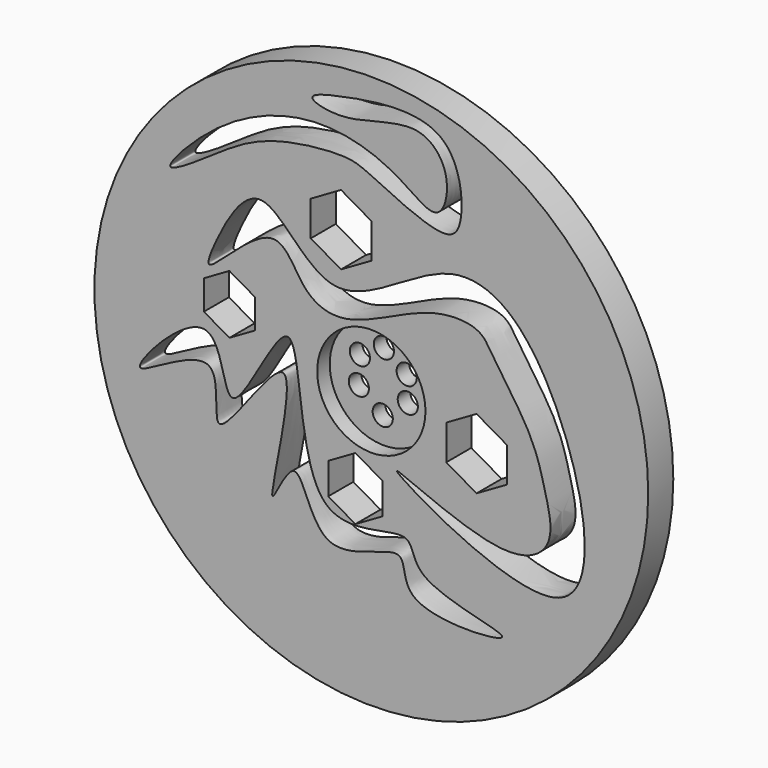
from build123d import *

# Parameters (mm, degrees)
F0_R     = 35.9051012263
F0_R_2   = 7.0201757863
F1_DEPTH = 4.064
F0_R_3   = 1.3075658624
F2_DEPTH = 2.032
F3_DEPTH = 1.016


with BuildPart() as f1:
    # F0 (on Front) → F1 (new body)
    with BuildSketch(Plane.XZ):
        Circle(F0_R)
        Polygon((-2.0674418192, -7.7260493804), (1.4472089242, -9.7552339332), (1.4472089242, -13.8136030389), (-2.0674418192, -15.8427875917), (-5.5820925627, -13.8136030389), (-5.5820925627, -9.7552339332), align=None, mode=Mode.SUBTRACT)
        with BuildLine():
            add(Edge.make_bspline(
                [(16.9530250132, -22.5351154804), (17.1385897836, -21.8236917728), (4.5855596995, -20.3460792101), (6.1052469399, -12.8764975212), (-10.5268100064, -21.3102126159), (-8.0495973756, 13.9561591727), (-19.3564744938, -14.0222738301), (-19.1267156982, 6.6168555829), (-36.3146713981, -12.9538855346), (-17.9180654987, 1.3228559127), (-22.309300559, -17.0595406296), (-6.7078772939, 9.3996224873), (-15.1397427253, -23.008420422), (-9.2921355294, -7.8537776164), (-7.3807737055, -23.3379959884), (5.5128442605, -14.6339294879), (2.8243446455, -24.1271386931), (16.7622998404, -23.2663232911), (16.9530250132, -22.5351154804)],
                knots=[0, 0, 0, 0, 0.0675307204, 0.1101672309, 0.1763180042, 0.2636793502, 0.3338734573, 0.3901368506, 0.4583510129, 0.521426687, 0.5733038571, 0.6440432408, 0.7224383757, 0.7664808304, 0.8241079175, 0.8863933435, 0.9305913063, 1, 1, 1, 1], degree=3))
        make_face(mode=Mode.SUBTRACT)
        with BuildLine():
            add(Edge.make_bspline(
                [(-20.054185763, 10.7506979257), (-18.6872268166, 13.6607393251), (-14.1417548775, 21.7106821552), (-5.2075741621, 4.6380146049), (10.8158200598, 21.4237962993), (25.0269671951, 10.1886752206), (33.0792104017, -26.590012772), (-7.548100143, -1.9956701827), (17.0664725896, -14.7772167941), (24.1771799617, -10.3807520602), (22.4443052785, -3.863637804), (21.0397131671, 1.8958193658), (15.8020671704, 8.72711401), (14.2524348543, 12.0260008446), (6.8450754729, 12.2448963322), (-2.7371381594, 5.9707392033), (-9.1993853123, 8.0745275921), (-12.1642365568, 16.9066552991), (-22.4056758747, 4.9762493873), (-20.8875040558, 8.9766938582), (-20.054185763, 10.7506979257)],
                knots=[0, 0, 0, 0, 0.0529352267, 0.1137956947, 0.1869825378, 0.2583956413, 0.345501533, 0.4304448635, 0.4971878383, 0.5453222978, 0.5879382233, 0.6333003417, 0.6854206389, 0.717790686, 0.7633919436, 0.8240114572, 0.8677049935, 0.911810715, 0.9677299067, 1, 1, 1, 1], degree=3))
        make_face(mode=Mode.SUBTRACT)
        Polygon((13.6451171711, 1.8481495918), (17.5732560456, -0.4197624448), (17.5732560456, -4.955586518), (13.6451171711, -7.2234985546), (9.7169782966, -4.955586518), (9.7169782966, -0.4197624448), align=None, mode=Mode.SUBTRACT)
        Polygon((-18.4002332389, 7.747782772), (-15.0923253968, 5.8379612889), (-15.0923253968, 2.0183183227), (-18.4002332389, 0.1084968396), (-21.708141081, 2.0183183227), (-21.708141081, 5.8379612889), align=None, mode=Mode.SUBTRACT)
        Polygon((-3.9281388745, 21.6955915221), (0, 19.4276794855), (0, 14.8918554123), (-3.9281388745, 12.6239433757), (-7.8562777489, 14.8918554123), (-7.8562777489, 19.4276794855), align=None, mode=Mode.SUBTRACT)
        with BuildLine():
            add(Edge.make_bspline(
                [(0, 24.6025584638), (2.519134824, 23.4265240958), (9.7782627058, 19.6653647007), (12.2709978535, 23.317860072), (10.9448553846, 34.8668339766), (-2.7964275343, 32.7737524115), (-9.5289819041, 31.0406010366), (-2.7353304502, 29.2714808232), (6.1723813435, 33.4756391479), (10.6113702887, 27.9919430879), (8.9205735189, 21.212079439), (2.9827149288, 26.6538900252), (-7.7880442819, 29.7245297625), (-19.89191705, 24.9193725486), (-28.4619809921, 15.2111158504), (-21.3997171439, 19.6010273455), (-16.5229048285, 23.2111674575), (-10.6099910825, 25.2503485248), (-3.2494447445, 25.9141333448), (-1.5142759622, 25.3094839357), (0, 24.6025584638)],
                knots=[0, 0, 0, 0, 0.0673142208, 0.1043759848, 0.1672026247, 0.2423225643, 0.2865701558, 0.3299813143, 0.3955493977, 0.4454105898, 0.4903324498, 0.5409509938, 0.6113249476, 0.6904612557, 0.7509678814, 0.7955081864, 0.8509660352, 0.9042044904, 0.9595367801, 1, 1, 1, 1], degree=3))
        make_face(mode=Mode.SUBTRACT)
        Circle(F0_R_2, mode=Mode.SUBTRACT)
    extrude(amount=F1_DEPTH)

    # F0 (on Front) → F2 (join)
    with BuildSketch(Plane.XZ):
        Circle(F0_R_2)
        with Locations((-3.2453567255, -1.1627117638)):
            Circle(F0_R_3, mode=Mode.SUBTRACT)
        with Locations((-0.1474606252, -3.6068281624)):
            Circle(F0_R_3, mode=Mode.SUBTRACT)
        with Locations((3.1052718405, -1.1581421131)):
            Circle(F0_R_3, mode=Mode.SUBTRACT)
        with Locations((-3.1078124885, 2.3504230194)):
            Circle(F0_R_3, mode=Mode.SUBTRACT)
        with Locations((2.9590814374, 2.058042679)):
            Circle(F0_R_3, mode=Mode.SUBTRACT)
        with Locations((0, 4.1348836385)):
            Circle(F0_R_3, mode=Mode.SUBTRACT)
    extrude(amount=F2_DEPTH)

    # F0 (on Front) → F3 (join)
    with BuildSketch(Plane.XZ):
        Circle(F0_R)
        Polygon((-2.0674418192, -7.7260493804), (1.4472089242, -9.7552339332), (1.4472089242, -13.8136030389), (-2.0674418192, -15.8427875917), (-5.5820925627, -13.8136030389), (-5.5820925627, -9.7552339332), align=None, mode=Mode.SUBTRACT)
        with BuildLine():
            add(Edge.make_bspline(
                [(16.9530250132, -22.5351154804), (17.1385897836, -21.8236917728), (4.5855596995, -20.3460792101), (6.1052469399, -12.8764975212), (-10.5268100064, -21.3102126159), (-8.0495973756, 13.9561591727), (-19.3564744938, -14.0222738301), (-19.1267156982, 6.6168555829), (-36.3146713981, -12.9538855346), (-17.9180654987, 1.3228559127), (-22.309300559, -17.0595406296), (-6.7078772939, 9.3996224873), (-15.1397427253, -23.008420422), (-9.2921355294, -7.8537776164), (-7.3807737055, -23.3379959884), (5.5128442605, -14.6339294879), (2.8243446455, -24.1271386931), (16.7622998404, -23.2663232911), (16.9530250132, -22.5351154804)],
                knots=[0, 0, 0, 0, 0.0675307204, 0.1101672309, 0.1763180042, 0.2636793502, 0.3338734573, 0.3901368506, 0.4583510129, 0.521426687, 0.5733038571, 0.6440432408, 0.7224383757, 0.7664808304, 0.8241079175, 0.8863933435, 0.9305913063, 1, 1, 1, 1], degree=3))
        make_face(mode=Mode.SUBTRACT)
        with BuildLine():
            add(Edge.make_bspline(
                [(-20.054185763, 10.7506979257), (-18.6872268166, 13.6607393251), (-14.1417548775, 21.7106821552), (-5.2075741621, 4.6380146049), (10.8158200598, 21.4237962993), (25.0269671951, 10.1886752206), (33.0792104017, -26.590012772), (-7.548100143, -1.9956701827), (17.0664725896, -14.7772167941), (24.1771799617, -10.3807520602), (22.4443052785, -3.863637804), (21.0397131671, 1.8958193658), (15.8020671704, 8.72711401), (14.2524348543, 12.0260008446), (6.8450754729, 12.2448963322), (-2.7371381594, 5.9707392033), (-9.1993853123, 8.0745275921), (-12.1642365568, 16.9066552991), (-22.4056758747, 4.9762493873), (-20.8875040558, 8.9766938582), (-20.054185763, 10.7506979257)],
                knots=[0, 0, 0, 0, 0.0529352267, 0.1137956947, 0.1869825378, 0.2583956413, 0.345501533, 0.4304448635, 0.4971878383, 0.5453222978, 0.5879382233, 0.6333003417, 0.6854206389, 0.717790686, 0.7633919436, 0.8240114572, 0.8677049935, 0.911810715, 0.9677299067, 1, 1, 1, 1], degree=3))
        make_face(mode=Mode.SUBTRACT)
        Polygon((13.6451171711, 1.8481495918), (17.5732560456, -0.4197624448), (17.5732560456, -4.955586518), (13.6451171711, -7.2234985546), (9.7169782966, -4.955586518), (9.7169782966, -0.4197624448), align=None, mode=Mode.SUBTRACT)
        Polygon((-18.4002332389, 7.747782772), (-15.0923253968, 5.8379612889), (-15.0923253968, 2.0183183227), (-18.4002332389, 0.1084968396), (-21.708141081, 2.0183183227), (-21.708141081, 5.8379612889), align=None, mode=Mode.SUBTRACT)
        Polygon((-3.9281388745, 21.6955915221), (0, 19.4276794855), (0, 14.8918554123), (-3.9281388745, 12.6239433757), (-7.8562777489, 14.8918554123), (-7.8562777489, 19.4276794855), align=None, mode=Mode.SUBTRACT)
        with BuildLine():
            add(Edge.make_bspline(
                [(0, 24.6025584638), (2.519134824, 23.4265240958), (9.7782627058, 19.6653647007), (12.2709978535, 23.317860072), (10.9448553846, 34.8668339766), (-2.7964275343, 32.7737524115), (-9.5289819041, 31.0406010366), (-2.7353304502, 29.2714808232), (6.1723813435, 33.4756391479), (10.6113702887, 27.9919430879), (8.9205735189, 21.212079439), (2.9827149288, 26.6538900252), (-7.7880442819, 29.7245297625), (-19.89191705, 24.9193725486), (-28.4619809921, 15.2111158504), (-21.3997171439, 19.6010273455), (-16.5229048285, 23.2111674575), (-10.6099910825, 25.2503485248), (-3.2494447445, 25.9141333448), (-1.5142759622, 25.3094839357), (0, 24.6025584638)],
                knots=[0, 0, 0, 0, 0.0673142208, 0.1043759848, 0.1672026247, 0.2423225643, 0.2865701558, 0.3299813143, 0.3955493977, 0.4454105898, 0.4903324498, 0.5409509938, 0.6113249476, 0.6904612557, 0.7509678814, 0.7955081864, 0.8509660352, 0.9042044904, 0.9595367801, 1, 1, 1, 1], degree=3))
        make_face(mode=Mode.SUBTRACT)
        Circle(F0_R_2, mode=Mode.SUBTRACT)
    extrude(amount=F3_DEPTH)


solid = f1.part
